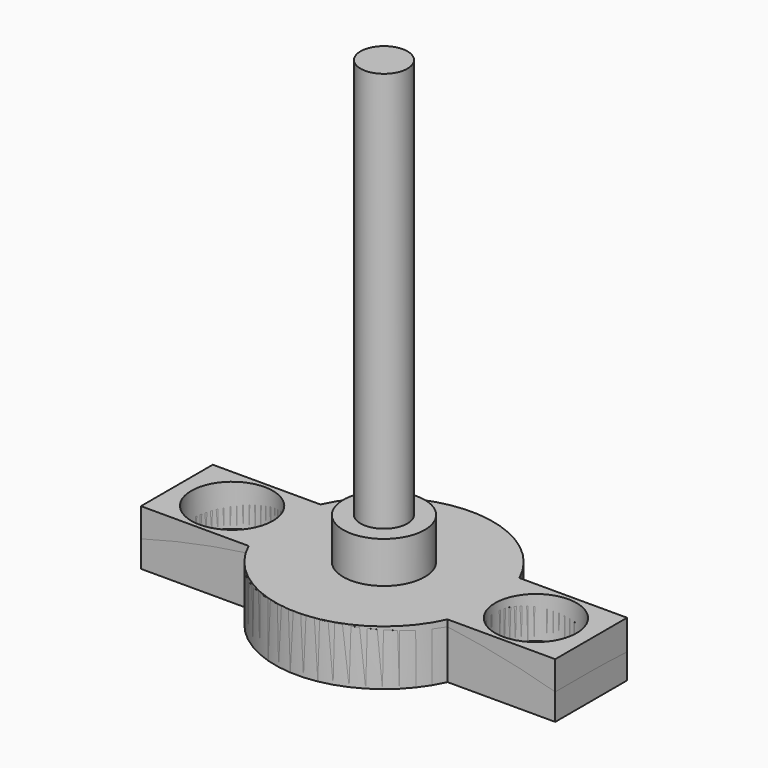
from build123d import *

# Parameters (mm, degrees)
CYLINDER_R               = 2.95
CYLINDER_DEPTH           = 7
CYLINDER001_R            = 1.7
CYLINDER001_DEPTH        = 30
CLONE060_PLACEMENT_ANGLE = 180
CLONE059_PLACEMENT_ANGLE = 180
PAD010_DEPTH             = 4


with BuildPart() as m3bolthead:
    # Cylinder → Cylinder (new body)
    with BuildSketch(Plane.XY):
        Circle(CYLINDER_R)
    extrude(amount=CYLINDER_DEPTH)


with BuildPart() as m3bolt:
    # Cylinder001 → Cylinder001 (new body)
    with BuildSketch(Plane.XY.offset(6)):
        Circle(CYLINDER001_R)
    extrude(amount=CYLINDER001_DEPTH)

    # Fusion: union M3BoltHead
    add(m3bolthead.part)


with BuildPart() as clone_of_m3bolt020:
    # Clone060 base: copy of M3Bolt
    add(m3bolt.part)


with BuildPart() as clone_of_m3bolt020_1:
    # Clone060 placement: moved
    add(clone_of_m3bolt020.part.moved(Location((-11, 0, 8))).rotate(Axis((-11, 0, 8), (0, 1, 0)), CLONE060_PLACEMENT_ANGLE))


with BuildPart() as fusion020:
    # Clone059 base: copy of M3Bolt
    add(m3bolt.part)


with BuildPart() as fusion020_1:
    # Clone059 placement: moved
    add(fusion020.part.moved(Location((11, 0, 8))).rotate(Axis((11, 0, 8), (0, 1, 0)), CLONE059_PLACEMENT_ANGLE))

    # Fusion020: union Clone of M3Bolt020
    add(clone_of_m3bolt020_1.part)


with BuildPart() as obj1:
    # Sketch017 → Pad010 (new body)
    with BuildSketch(Plane.XY):
        with BuildLine():
            ThreePointArc((-7.200521, -3.25), (0, -7.9), (7.200521, -3.25))
            Line((15, -3.25), (7.200521, -3.25))
            Line((15, 3.25), (15, -3.25))
            Line((7.200521, 3.25), (15, 3.25))
            ThreePointArc((7.200521, 3.25), (0, 7.9), (-7.200521, 3.25))
            Line((-15, 3.25), (-7.200521, 3.25))
            Line((-15, -3.25), (-15, 3.25))
            Line((-7.200521, -3.25), (-15, -3.25))
        make_face()
    extrude(amount=PAD010_DEPTH)

    # Cut021: cut Fusion020
    add(fusion020_1.part, mode=Mode.SUBTRACT)


with BuildPart() as revolution014:
    # Sketch064 → Revolution014 (revolve)
    with BuildSketch(Plane(origin=(0, 0, -51), x_dir=(0, 1, 0), z_dir=(-1, 0, 0))):
        with BuildLine():
            ThreePointArc((0, -55), (16.583124, -52.440442), (31.622777, -45))
            Line((-8.377223, -45), (31.622777, -45))
            Line((-8.377223, -45), (-8.377223, -55))
            Line((0, -55), (-8.377223, -55))
        make_face()
    revolve(axis=Axis((0, 0, -51), (0, 1, 0)))


with BuildPart() as obj2:
    # Clone309 base: copy of obj1
    add(obj1.part)

    # Common: intersect Revolution014
    add(revolution014.part, mode=Mode.INTERSECT)


solid = Compound([m3bolt.part, obj1.part, obj2.part])
